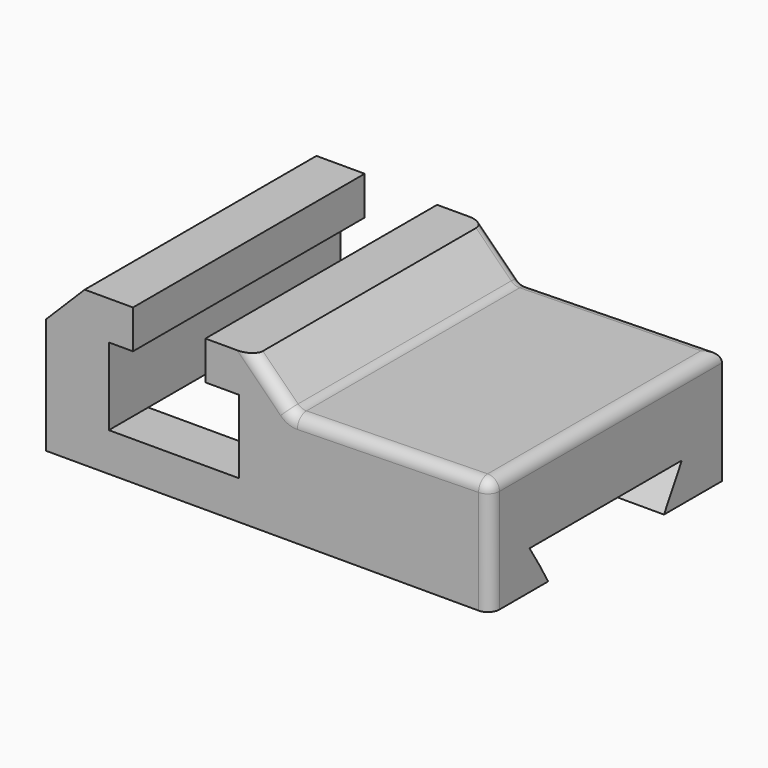
from build123d import *

# Parameters (mm, degrees)
F1_DEPTH = 38.1
F2_R     = 3.048
F4_DEPTH = 116.84


with BuildPart() as f1:
    # F0 (on Front) → F1 (new body, symmetric)
    with BuildSketch(Plane.XZ):
        Polygon((0.306206, 7.981648), (10.466206, 7.981648), (0.306206, 18.141648), align=None)
        Polygon((-54.303794, -21.495858), (62.536206, -21.495858), (62.536206, 8.984142), (10.466206, 7.981648), (0.306206, 7.981648), (0.306206, 18.141648), (-12.393794, 18.141648), (-12.393794, 7.981648), (-3.503794, 7.981648), (-3.503794, -11.335858), (-37.793794, -11.335858), (-37.793794, 8.984142), (-31.443794, 8.984142), (-31.443794, 19.144142), (-44.143794, 19.144142), (-54.303794, 8.984142), align=None)
    extrude(amount=F1_DEPTH, both=True)

    # F2
    f2_edges = [f1.edges().sort_by_distance(p)[0] for p in [
        (5.386206, -38.1, 13.061648),
        (36.501206, -38.1, 8.482895),
        (62.536206, -38.1, -6.255858),
        (62.536206, 0, 8.984142),
        (10.466206, 0, 7.981648),
        (36.501206, 38.1, 8.482895),
        (5.386206, 38.1, 13.061648),
    ]]
    fillet(f2_edges, radius=F2_R)

    # F3 (on face) → F4 (cut)
    with BuildSketch(Plane.YZ.offset(62.536206)):
        Polygon((0, -11.335858), (0, -21.495858), (19.05, -21.495858), (24.915879, -11.335858), align=None)
        Polygon((-19.05, -21.495858), (0, -21.495858), (0, -11.335858), (-25.161097, -11.335858), (-21.809316, -16.716583), align=None)
    extrude(amount=-F4_DEPTH, mode=Mode.SUBTRACT)


solid = f1.part
